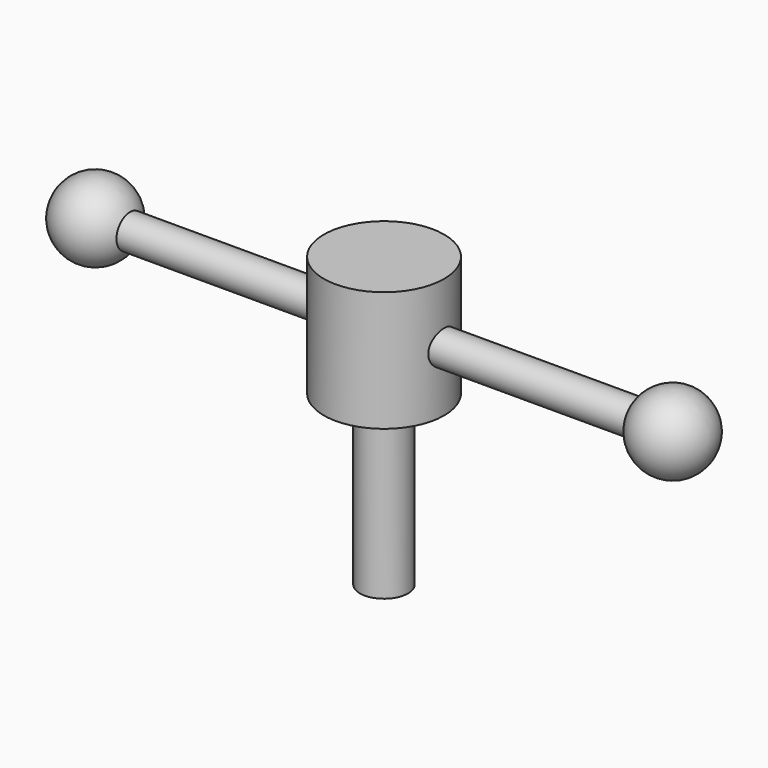
from build123d import *

# Parameters (mm, degrees)
F0_R          = 15.875
F1_DEPTH      = 15.875
F2_R          = 6.35
F3_DEPTH      = 44.45
F4_R          = 4.445
F6_DEPTH      = 15.876
F6_DEPTH_BACK = 15.876
F5_R          = 4.445
F7_DEPTH      = 76.2
F7_DEPTH_BACK = 76.2


with BuildPart() as f1:
    # F0 (on Top) → F1 (new body, symmetric)
    with BuildSketch(Plane.XY):
        Circle(F0_R)
    extrude(amount=F1_DEPTH, both=True)

    # F2 (on face) → F3 (join)
    with BuildSketch(Plane(origin=(0, 0, -15.875), x_dir=(1, 0, 0), z_dir=(0, 0, -1))):
        Circle(F2_R)
    extrude(amount=F3_DEPTH)

    # F4 (on Right) → F6 (cut, two sides)
    with BuildSketch(Plane.YZ) as f6_sk:
        Circle(F4_R)
    extrude(amount=F6_DEPTH, mode=Mode.SUBTRACT)
    extrude(f6_sk.sketch, amount=-F6_DEPTH_BACK, mode=Mode.SUBTRACT)

    # F5 (on Right) → F7 (join, two sides)
    with BuildSketch(Plane.YZ) as f7_sk:
        Circle(F5_R)
    extrude(amount=F7_DEPTH)
    extrude(f7_sk.sketch, amount=-F7_DEPTH_BACK)

    # F8 (on Front) → F9 (revolve)
    with BuildSketch(Plane.XZ):
        with BuildLine():
            ThreePointArc((-66.04, 0), (-76.2, 10.16), (-86.36, 0))
            Line((-86.36, 0), (-66.04, 0))
        make_face()
        with BuildLine():
            ThreePointArc((86.36, 0), (76.2, 10.16), (66.04, 0))
            Line((66.04, 0), (86.36, 0))
        make_face()
    revolve(axis=Axis((-7.208937, 0, 0), (1, 0, 0)))


solid = f1.part
